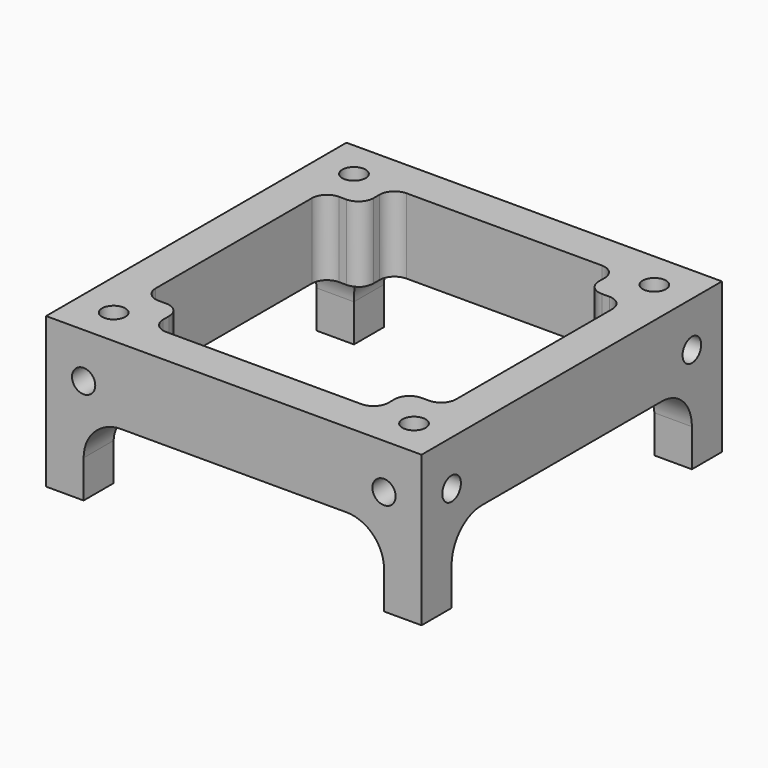
from build123d import *

# Parameters (mm, degrees)
SKETCH218_W             = 50
SKETCH218_H             = 50
PAD037_DEPTH            = 20
POCKET182_DEPTH         = 20.001
POCKET183_DEPTH         = 50.001
POCKET184_DEPTH         = 50.001
SKETCH222_R             = 1.55
POCKET185_DEPTH         = 5
SKETCH223_R             = 1.55
POCKET186_DEPTH         = 3
SKETCH224_R             = 1.55
POCKET187_DEPTH         = 3
BODY038_PLACEMENT_ANGLE = 90


with BuildPart() as part:
    # Sketch218 → Pad037 (new body)
    with BuildSketch(Plane.XY):
        Rectangle(SKETCH218_W, SKETCH218_H)
    extrude(amount=PAD037_DEPTH)

    # Sketch219 (on Face6 of Pad037) → Pocket182 (cut, through all)
    with BuildSketch(Plane.XY.offset(20)):
        with BuildLine():
            Line((-18, 15), (-17, 15))
            ThreePointArc((-17, 15), (-15.585786, 15.585786), (-15, 17))
            Line((-15, 17), (-15, 18))
            ThreePointArc((-13, 20), (-14.414214, 19.414214), (-15, 18))
            Line((-13, 20), (13, 20))
            ThreePointArc((15, 18), (14.414214, 19.414214), (13, 20))
            Line((15, 18), (15, 17))
            ThreePointArc((15, 17), (15.585786, 15.585786), (17, 15))
            Line((17, 15), (18, 15))
            ThreePointArc((20, 13), (19.414214, 14.414214), (18, 15))
            Line((20, 13), (20, -13))
            ThreePointArc((18, -15), (19.414214, -14.414214), (20, -13))
            Line((18, -15), (17, -15))
            ThreePointArc((17, -15), (15.585786, -15.585786), (15, -17))
            Line((15, -17), (15, -18))
            ThreePointArc((13, -20), (14.414214, -19.414214), (15, -18))
            Line((13, -20), (-13, -20))
            ThreePointArc((-15, -18), (-14.414214, -19.414214), (-13, -20))
            Line((-15, -18), (-15, -17))
            ThreePointArc((-15, -17), (-15.585786, -15.585786), (-17, -15))
            Line((-17, -15), (-18, -15))
            ThreePointArc((-20, -13), (-19.414214, -14.414214), (-18, -15))
            Line((-20, -13), (-20, 13))
            ThreePointArc((-18, 15), (-19.414214, 14.414214), (-20, 13))
        make_face()
    extrude(amount=-POCKET182_DEPTH, mode=Mode.SUBTRACT)

    # Sketch220 (on Face3 of Pocket182) → Pocket183 (cut, through all)
    with BuildSketch(Plane.YZ.offset(25)):
        with BuildLine():
            Line((-15, 10), (15, 10))
            ThreePointArc((20, 5), (18.535534, 8.535534), (15, 10))
            Line((20, 5), (20, 0))
            Line((20, 0), (-20, 0))
            Line((-20, 0), (-20, 5))
            ThreePointArc((-15, 10), (-18.535534, 8.535534), (-20, 5))
        make_face()
    extrude(amount=-POCKET183_DEPTH, mode=Mode.SUBTRACT)

    # Sketch221 (on Face6 of Pocket182) → Pocket184 (cut, through all)
    with BuildSketch(Plane.XZ.offset(25)):
        with BuildLine():
            Line((-15, 10), (15, 10))
            ThreePointArc((20, 5), (18.535534, 8.535534), (15, 10))
            Line((20, 5), (20, 0))
            Line((20, 0), (-20, 0))
            Line((-20, 0), (-20, 5))
            ThreePointArc((-15, 10), (-18.535534, 8.535534), (-20, 5))
        make_face()
    extrude(amount=-POCKET184_DEPTH, mode=Mode.SUBTRACT)

    # Sketch222 → Pocket185 (cut)
    with BuildSketch(Plane.XY.offset(20)):
        with Locations((-20, 20)):
            Circle(SKETCH222_R)
        with Locations((20, 20)):
            Circle(SKETCH222_R)
        with Locations((20, -20)):
            Circle(SKETCH222_R)
        with Locations((-20, -20)):
            Circle(SKETCH222_R)
    extrude(amount=-POCKET185_DEPTH, mode=Mode.SUBTRACT)

    # Sketch223 (on Face27 of Pocket185) → Pocket186 (cut)
    with BuildSketch(Plane.XZ.offset(25)):
        with Locations((-20, 14)):
            Circle(SKETCH223_R)
        with Locations((20, 14)):
            Circle(SKETCH223_R)
    extrude(amount=-POCKET186_DEPTH, mode=Mode.SUBTRACT)

    # Sketch224 (on Face11 of Pocket186) → Pocket187 (cut)
    with BuildSketch(Plane(origin=(-25, 0, 0), x_dir=(0, -1, 0), z_dir=(-1, 0, 0))):
        with Locations((-20, 14)):
            Circle(SKETCH224_R)
        with Locations((20, 14)):
            Circle(SKETCH224_R)
    extrude(amount=-POCKET187_DEPTH, mode=Mode.SUBTRACT)


with BuildPart() as part_1:
    # Body038 placement: moved
    add(part.part.moved(Location((145, 25, 0))).rotate(Axis((145, 25, 0), (0, 0, 1)), BODY038_PLACEMENT_ANGLE))


solid = part_1.part
